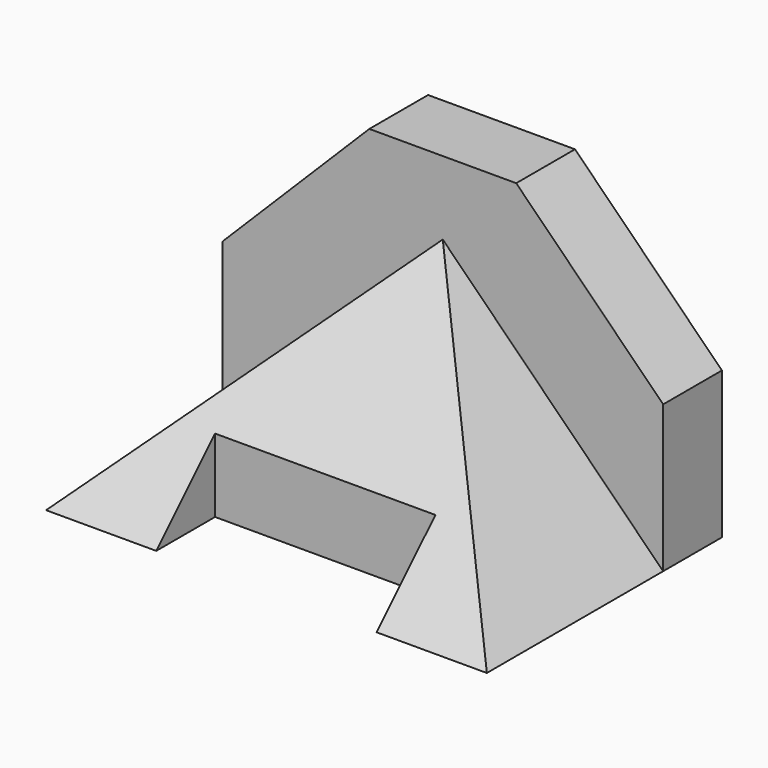
from build123d import *

# Parameters (mm, degrees)
F1_DEPTH       = 12.7
F3_DEPTH       = 38.1
F5_DEPTH       = 76.201
F7_DEPTH       = 38.1
F9_DEPTH       = 25.4
F9_DEPTH_BACK  = 25.4
F10_DEPTH      = 25.4
F10_DEPTH_BACK = 25.4


with BuildPart() as f1:
    # F0 (on Front) → F1 (new body)
    with BuildSketch(Plane.XZ):
        Polygon((0, 25.4), (0, 0), (76.2, 0), (76.2, 25.4), (50.8, 50.8), (25.4, 50.8), align=None)
    extrude(amount=F1_DEPTH)


with BuildPart() as f3:
    # F2 (on Top) → F3 (new body)
    with BuildSketch(Plane.XY):
        Polygon((38.1, -12.7), (0, -50.8), (19.05, -50.8), (19.05, -38.1), (57.15, -38.1), (57.15, -50.8), (76.2, -50.8), align=None)
    extrude(amount=F3_DEPTH)

    # F4 (on face) → F5 (cut, through all)
    with BuildSketch(Plane.YZ.offset(76.2)):
        Polygon((-50.8, 38.1), (-50.8, 0), (-12.7, 38.1), align=None)
    extrude(amount=-F5_DEPTH, mode=Mode.SUBTRACT)


with BuildPart() as f7:
    # F6 (on Top) → F7 (new body)
    with BuildSketch(Plane.XY):
        Polygon((38.1, -12.7), (0, -12.7), (0, -50.8), align=None)
    extrude(amount=F7_DEPTH)

    # F8 (on face) → F9 (cut, two sides)
    with BuildSketch(Plane.XZ.offset(38.1)) as f9_sk:
        Polygon((0, 0), (38.1, 38.1), (0, 38.1), align=None)
    extrude(amount=-F9_DEPTH, mode=Mode.SUBTRACT)
    extrude(f9_sk.sketch, amount=F9_DEPTH_BACK, mode=Mode.SUBTRACT)


with BuildPart() as f7b:
    # F6 (on Top) → F7, piece 2 (new body)
    with BuildSketch(Plane.XY):
        Polygon((76.2, -12.7), (38.1, -12.7), (76.2, -50.8), align=None)
    extrude(amount=F7_DEPTH)

    # F8 (on face) → F10 (cut, two sides)
    with BuildSketch(Plane.XZ.offset(38.1)) as f10_sk:
        Polygon((76.2, 38.1), (38.1, 38.1), (76.2, 0), align=None)
    extrude(amount=-F10_DEPTH, mode=Mode.SUBTRACT)
    extrude(f10_sk.sketch, amount=F10_DEPTH_BACK, mode=Mode.SUBTRACT)


solid = Compound([f1.part, f3.part, f7.part, f7b.part])
